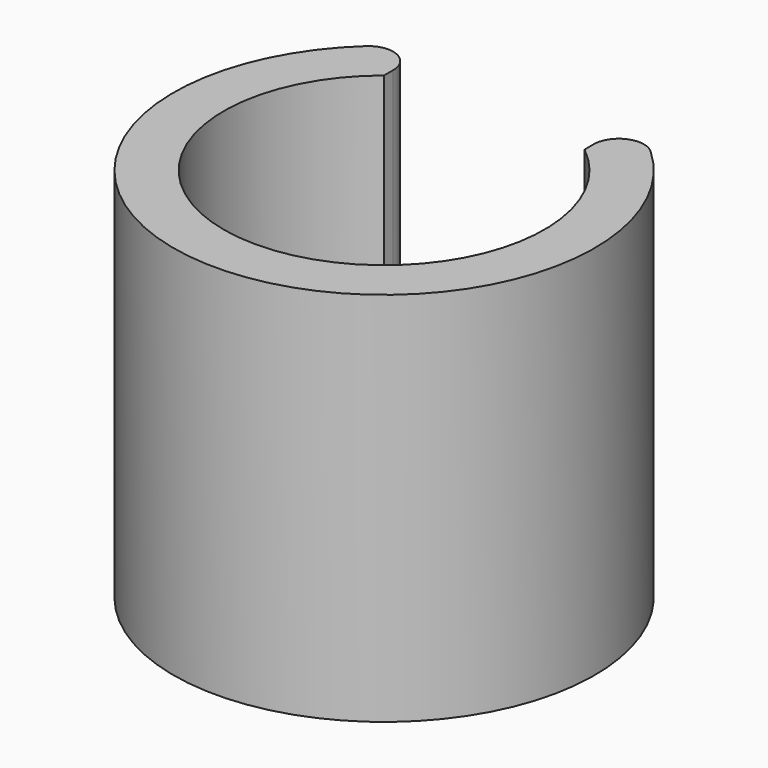
from build123d import *

# Parameters (mm, degrees)
F1_DEPTH = 15


with BuildPart() as f1:
    # F0 (on Top) → F1 (new body)
    with BuildSketch(Plane.XY):
        with BuildLine():
            Line((4, 5.455273), (4, 4.995998))
            ThreePointArc((4, 4.995998), (0, -6.4), (-4, 4.995998))
            Line((-4, 4.995998), (-4, 5.455273))
            ThreePointArc((-4, 5.455273), (-4.597306, 6.370608), (-5.675676, 6.192472))
            ThreePointArc((-5.675676, 6.192472), (0, -8.4), (5.675676, 6.192472))
            ThreePointArc((5.675676, 6.192472), (4.597306, 6.370608), (4, 5.455273))
        make_face()
    extrude(amount=F1_DEPTH)


solid = f1.part
